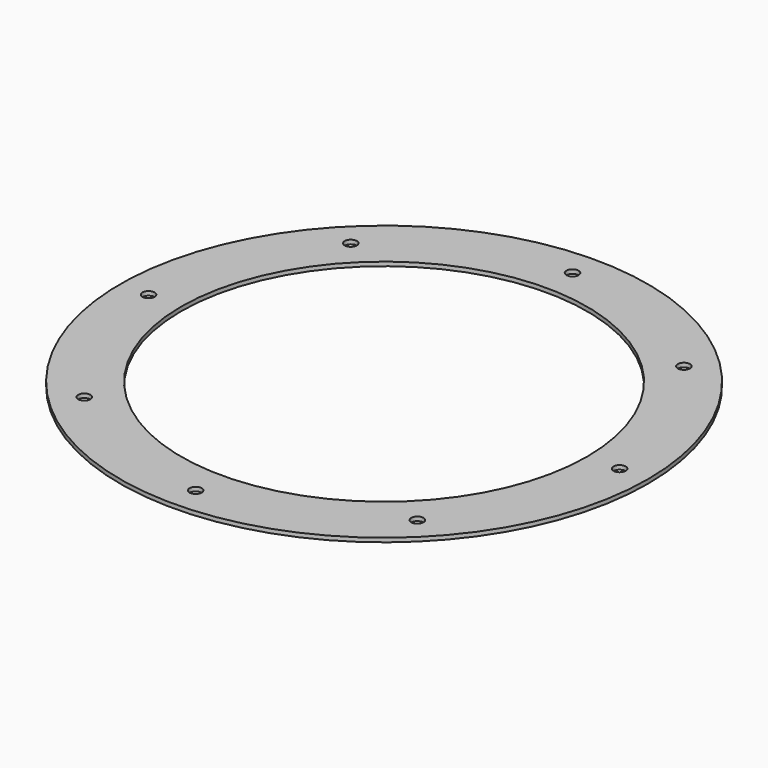
from build123d import *

# Parameters (mm, degrees)
SKETCH_R      = 65
SKETCH_R_2    = 50
SKETCH_R_3    = 1.5
EXTRUDE_DEPTH = 1


with BuildPart() as part:
    # Sketch → Extrude (new body)
    with BuildSketch(Plane.XY):
        Circle(SKETCH_R)
        Circle(SKETCH_R_2, mode=Mode.SUBTRACT)
        with Locations((-41.012193, 41.012193)):
            Circle(SKETCH_R_3, mode=Mode.SUBTRACT)
        with Locations((0, 58)):
            Circle(SKETCH_R_3, mode=Mode.SUBTRACT)
        with Locations((58, 0)):
            Circle(SKETCH_R_3, mode=Mode.SUBTRACT)
        with Locations((0, -58)):
            Circle(SKETCH_R_3, mode=Mode.SUBTRACT)
        with Locations((-41.012193, -41.012193)):
            Circle(SKETCH_R_3, mode=Mode.SUBTRACT)
        with Locations((-58, 0)):
            Circle(SKETCH_R_3, mode=Mode.SUBTRACT)
        with Locations((41.012193, -41.012193)):
            Circle(SKETCH_R_3, mode=Mode.SUBTRACT)
        with Locations((41.012193, 41.012193)):
            Circle(SKETCH_R_3, mode=Mode.SUBTRACT)
    extrude(amount=EXTRUDE_DEPTH)


solid = part.part
